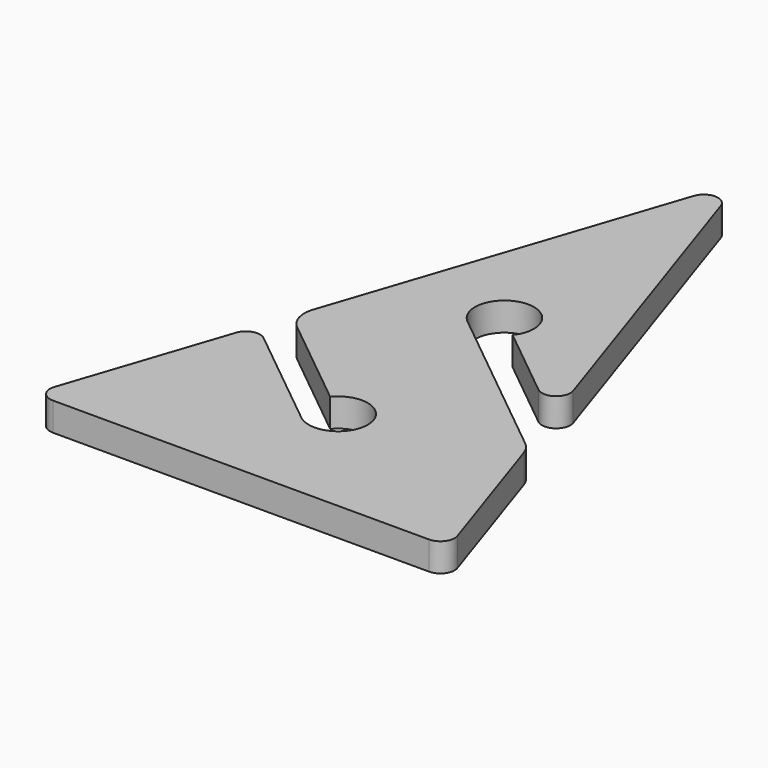
from build123d import *

# Parameters (mm, degrees)
F1_DEPTH = 3
F2_R     = 1.5
F3_R     = 3


with BuildPart() as f1:
    # F0 (on Top) → F1 (new body)
    with BuildSketch(Plane.XY):
        with BuildLine():
            Line((-15, 21), (-22, 0))
            Line((-22, 0), (22, 0))
            Line((22, 0), (16.046474, 17.860578))
            Line((16.046474, 17.860578), (-1.966555, 32.446361))
            ThreePointArc((-1.966555, 32.446361), (-1.345389, 37.695559), (3.125, 34.875))
            ThreePointArc((3.125, 34.875), (2.94577, 33.831897), (2.428639, 32.908445))
            Line((2.428639, 32.908445), (14.21061, 23.368169))
            Line((14.21061, 23.368169), (0, 66))
            Line((0, 66), (-13.944539, 24.166384))
            Line((-13.944539, 24.166384), (-2.428639, 14.841555))
            ThreePointArc((-2.428639, 14.841555), (1.043103, 15.82077), (3.125, 12.875))
            ThreePointArc((3.125, 12.875), (1.345389, 10.054441), (-1.966555, 10.446361))
            Line((-1.966555, 10.446361), (-15, 21))
        make_face()
    extrude(amount=F1_DEPTH)

    # F2
    f2_edges = [f1.edges().sort_by_distance(p)[0] for p in [
        (-22, 0, 1.5),
        (22, 0, 1.5),
        (14.21061, 23.368169, 1.5),
        (0, 66, 1.5),
        (-15, 21, 1.5),
    ]]
    fillet(f2_edges, radius=F2_R)

    # F3
    f3_edges = [f1.edges().sort_by_distance(p)[0] for p in [
        (-13.944539, 24.166384, 1.5),
        (16.046474, 17.860578, 1.5),
    ]]
    fillet(f3_edges, radius=F3_R)


solid = f1.part
